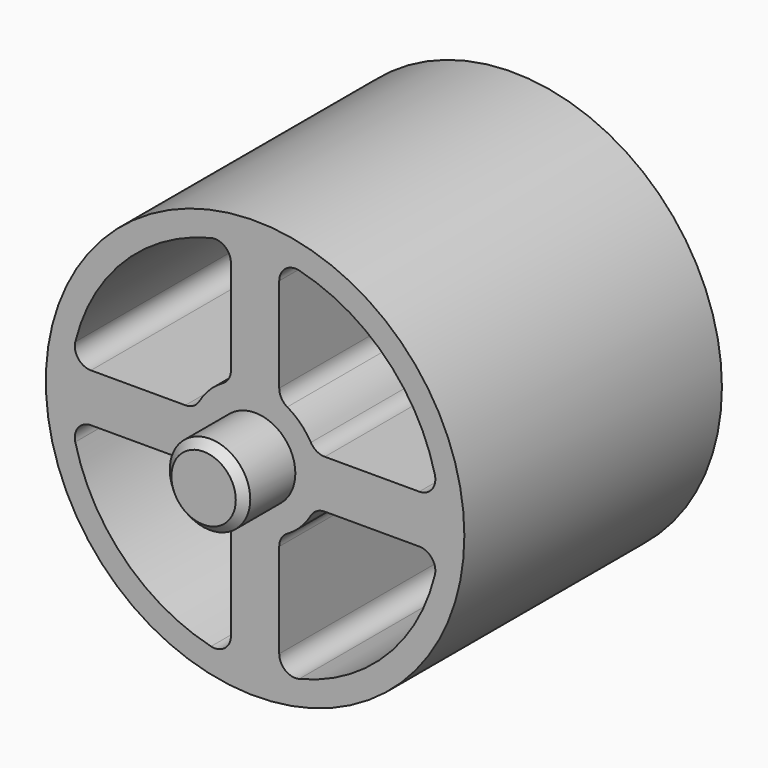
from build123d import *

# Parameters (mm, degrees)
F0_R     = 13
F1_DEPTH = 10
F2_R     = 2.5
F3_DEPTH = 14
F4_SIZE  = 0.5


with BuildPart() as f1:
    # F0 (on Front) → F1 (new body, symmetric)
    with BuildSketch(Plane.XZ):
        Circle(F0_R)
        with BuildLine():
            ThreePointArc((-2.738095, -11.169281), (-8.131728, -8.131728), (-11.169281, -2.738095))
            ThreePointArc((-11.169281, -2.738095), (-10.984835, -1.882787), (-10.198039, -1.5))
            Line((-10.198039, -1.5), (-4.330127, -1.5))
            ThreePointArc((-4.330127, -1.5), (-3.830127, -1.633975), (-3.464102, -2))
            ThreePointArc((-3.464102, -2), (-2.828427, -2.828427), (-2, -3.464102))
            ThreePointArc((-2, -3.464102), (-1.633975, -3.830127), (-1.5, -4.330127))
            Line((-1.5, -4.330127), (-1.5, -10.198039))
            ThreePointArc((-1.5, -10.198039), (-1.882787, -10.984835), (-2.738095, -11.169281))
        make_face(mode=Mode.SUBTRACT)
        with BuildLine():
            Line((1.5, -10.198039), (1.5, -4.330127))
            ThreePointArc((1.5, -4.330127), (1.633975, -3.830127), (2, -3.464102))
            ThreePointArc((2, -3.464102), (2.828427, -2.828427), (3.464102, -2))
            ThreePointArc((3.464102, -2), (3.830127, -1.633975), (4.330127, -1.5))
            Line((4.330127, -1.5), (10.198039, -1.5))
            ThreePointArc((10.198039, -1.5), (10.984835, -1.882787), (11.169281, -2.738095))
            ThreePointArc((11.169281, -2.738095), (8.131728, -8.131728), (2.738095, -11.169281))
            ThreePointArc((2.738095, -11.169281), (1.882787, -10.984835), (1.5, -10.198039))
        make_face(mode=Mode.SUBTRACT)
        with BuildLine():
            ThreePointArc((-1.5, 4.330127), (-1.633975, 3.830127), (-2, 3.464102))
            ThreePointArc((-2, 3.464102), (-2.828427, 2.828427), (-3.464102, 2))
            ThreePointArc((-3.464102, 2), (-3.830127, 1.633975), (-4.330127, 1.5))
            Line((-4.330127, 1.5), (-10.198039, 1.5))
            ThreePointArc((-10.198039, 1.5), (-10.984835, 1.882787), (-11.169281, 2.738095))
            ThreePointArc((-11.169281, 2.738095), (-8.131728, 8.131728), (-2.738095, 11.169281))
            ThreePointArc((-2.738095, 11.169281), (-1.882787, 10.984835), (-1.5, 10.198039))
            Line((-1.5, 10.198039), (-1.5, 4.330127))
        make_face(mode=Mode.SUBTRACT)
        with BuildLine():
            Line((1.5, 4.330127), (1.5, 10.198039))
            ThreePointArc((1.5, 10.198039), (1.882787, 10.984835), (2.738095, 11.169281))
            ThreePointArc((2.738095, 11.169281), (8.131728, 8.131728), (11.169281, 2.738095))
            ThreePointArc((11.169281, 2.738095), (10.984835, 1.882787), (10.198039, 1.5))
            Line((10.198039, 1.5), (4.330127, 1.5))
            ThreePointArc((4.330127, 1.5), (3.830127, 1.633975), (3.464102, 2))
            ThreePointArc((3.464102, 2), (2.828427, 2.828427), (2, 3.464102))
            ThreePointArc((2, 3.464102), (1.633975, 3.830127), (1.5, 4.330127))
        make_face(mode=Mode.SUBTRACT)
    extrude(amount=F1_DEPTH, both=True)

    # F2 (on Front) → F3 (join, symmetric)
    with BuildSketch(Plane.XZ):
        Circle(F2_R)
    extrude(amount=F3_DEPTH, both=True)

    # F4
    f4_edges = [f1.edges().sort_by_distance(p)[0] for p in [
        (-2.5, -14, 0),
        (-2.5, 14, 0),
    ]]
    chamfer(f4_edges, length=F4_SIZE)


solid = f1.part
